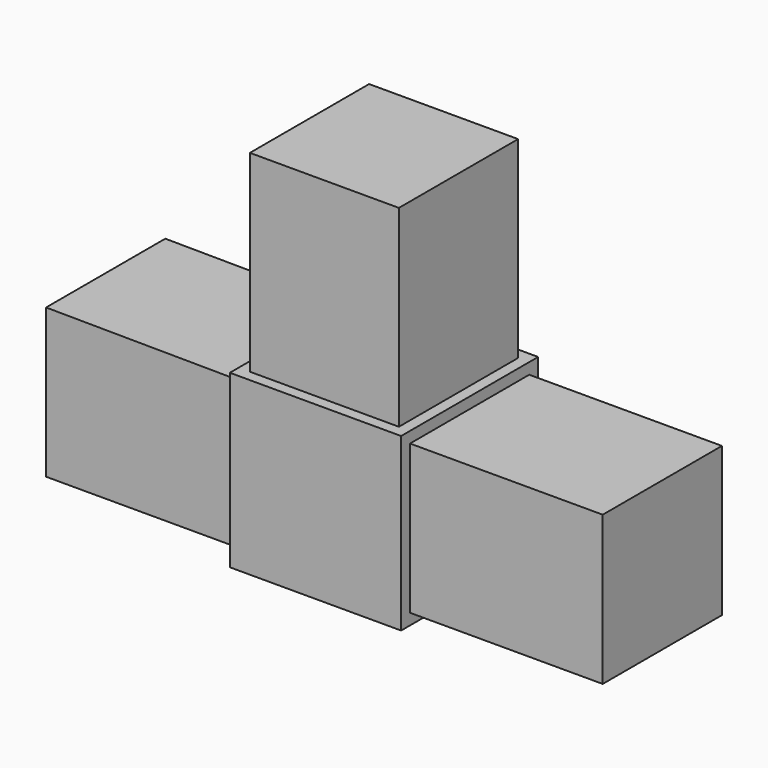
from build123d import *

# Parameters (mm, degrees)
F1_DEPTH = 12.7
F0_W     = 22.098
F0_H     = 28.575
F0_W_2   = 28.575
F0_H_2   = 22.098
F2_DEPTH = 11.049


with BuildPart() as f1:
    # F0 (on Front) → F1 (new body, symmetric)
    with BuildSketch(Plane.XZ):
        Polygon((-11.049, 12.7), (-12.7, 12.7), (-12.7, 11.049), (-12.7, -10.838865), (-12.7, -12.7), (12.7, -12.7), (12.7, -11.049), (12.7, 11.049), (12.7, 12.7), (11.049, 12.7), align=None)
    extrude(amount=F1_DEPTH, both=True)

    # F0 (on Front) → F2 (join, symmetric)
    with BuildSketch(Plane.XZ):
        Polygon((-12.7, -10.838865), (-12.7, 11.049), (-41.274227, 11.259135), (-41.274227, -10.838865), align=None)
        with Locations((0, 26.9875)):
            Rectangle(F0_W, F0_H)
        with Locations((26.9875, 0)):
            Rectangle(F0_W_2, F0_H_2)
    extrude(amount=F2_DEPTH, both=True)


solid = f1.part
